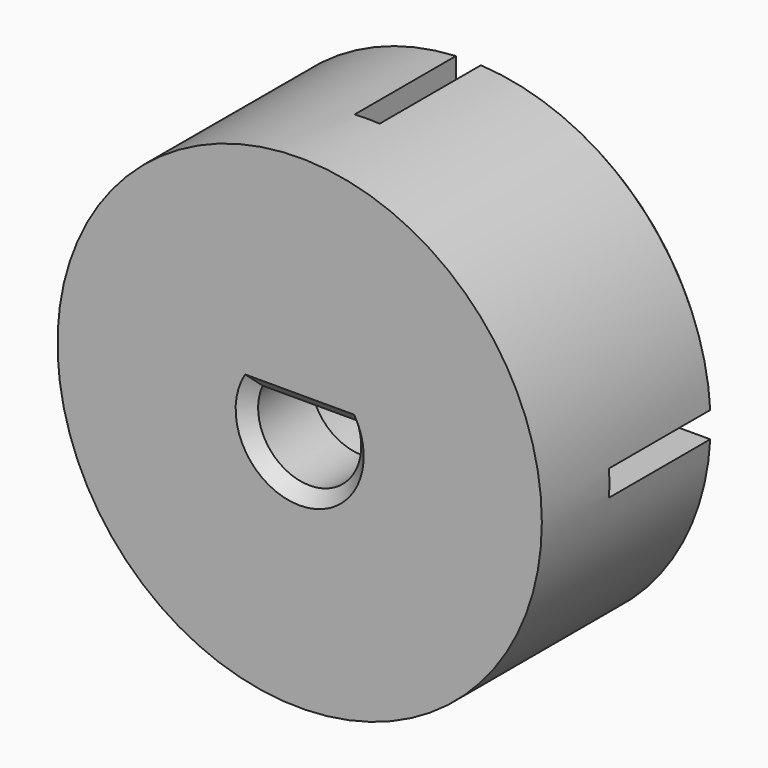
from build123d import *

# Parameters (mm, degrees)
F0_R     = 15.5
F1_DEPTH = 14
F2_W     = 36
F2_H     = 1.65
F3_DEPTH = 8.6
F4_W     = 1.6
F4_H     = 40
F5_DEPTH = 8.6
F6_R     = 5.6
F7_DEPTH = 9
F8_SIZE  = 0.8
F9_SIZE  = 0.5


with BuildPart() as f1:
    # F0 (on Front) → F1 (new body)
    with BuildSketch(Plane.XZ):
        Circle(F0_R)
        with BuildLine():
            ThreePointArc((3.011229, 1.35), (0, -3.3), (-3.011229, 1.35))
            Line((-3.011229, 1.35), (3.011229, 1.35))
        make_face(mode=Mode.SUBTRACT)
    extrude(amount=F1_DEPTH)

    # F2 (on Front) → F3 (cut)
    with BuildSketch(Plane.XZ):
        Rectangle(F2_W, F2_H)
    extrude(amount=F3_DEPTH, mode=Mode.SUBTRACT)

    # F4 (on Front) → F5 (cut)
    with BuildSketch(Plane.XZ):
        Rectangle(F4_W, F4_H)
    extrude(amount=F5_DEPTH, mode=Mode.SUBTRACT)

    # F6 (on Front) → F7 (cut)
    with BuildSketch(Plane.XZ):
        Circle(F6_R)
    extrude(amount=F7_DEPTH, mode=Mode.SUBTRACT)

    # F8
    f8_edges = [f1.edges().sort_by_distance(p)[0] for p in [
        (0, -14, 1.35),
        (0, -14, -3.3),
    ]]
    chamfer(f8_edges, length=F8_SIZE)

    # F9
    f9_edges = [f1.edges().sort_by_distance(p)[0] for p in [
        (10.508463, 0, 0.825),
        (-10.508463, 0, 0.825),
        (-10.508463, 0, -0.825),
        (10.508463, 0, -0.825),
        (-0.8, 0, 10.510952),
        (-0.8, 0, -10.510952),
        (0.8, 0, 10.510952),
        (0.8, 0, -10.510952),
        (3.950855, 0, 3.968721),
        (-3.950855, 0, 3.968721),
        (-3.950855, 0, -3.968721),
        (3.950855, 0, -3.968721),
        (10.951301, 0, 10.969003),
        (-10.951301, 0, 10.969003),
        (-10.951301, 0, -10.969003),
        (10.951301, 0, -10.969003),
    ]]
    chamfer(f9_edges, length=F9_SIZE)


solid = f1.part
